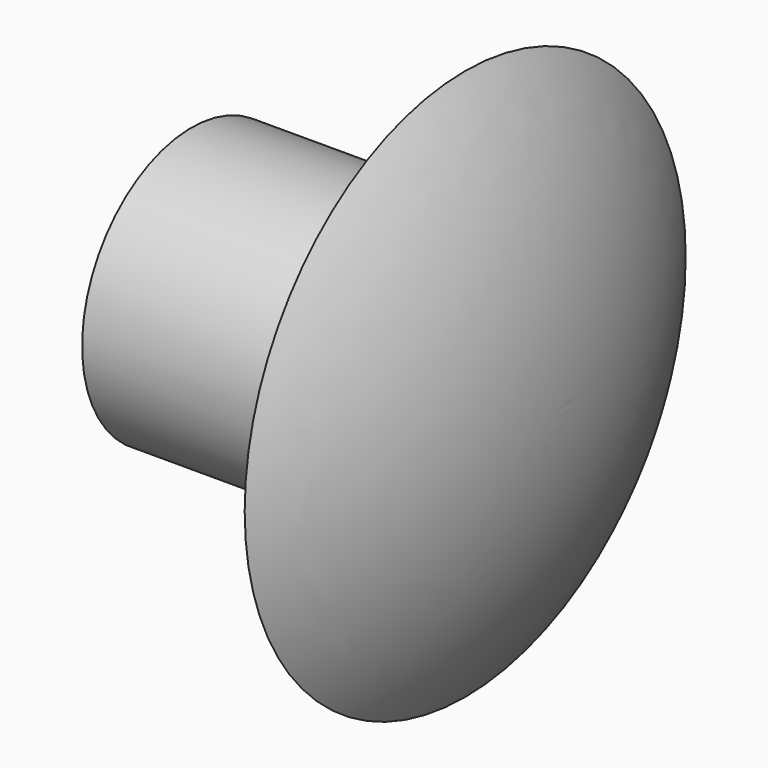
from build123d import *

# Parameters (mm, degrees)
F0_W = 6
F0_H = 3


with BuildPart() as f1:
    # F0 (on Top) → F1 (revolve)
    with BuildSketch(Plane.XY):
        with Locations((3, 1.5)):
            Rectangle(F0_W, F0_H)
        with BuildLine():
            Line((6, 3), (6, 0))
            Line((6, 0), (7.868567, 0))
            ThreePointArc((7.868567, 0), (7.405585, 3.167696), (6, 6.043975))
            Line((6, 6.043975), (6, 3))
        make_face()
    revolve(axis=Axis((3, 0, 0), (1, 0, 0)))


solid = f1.part
